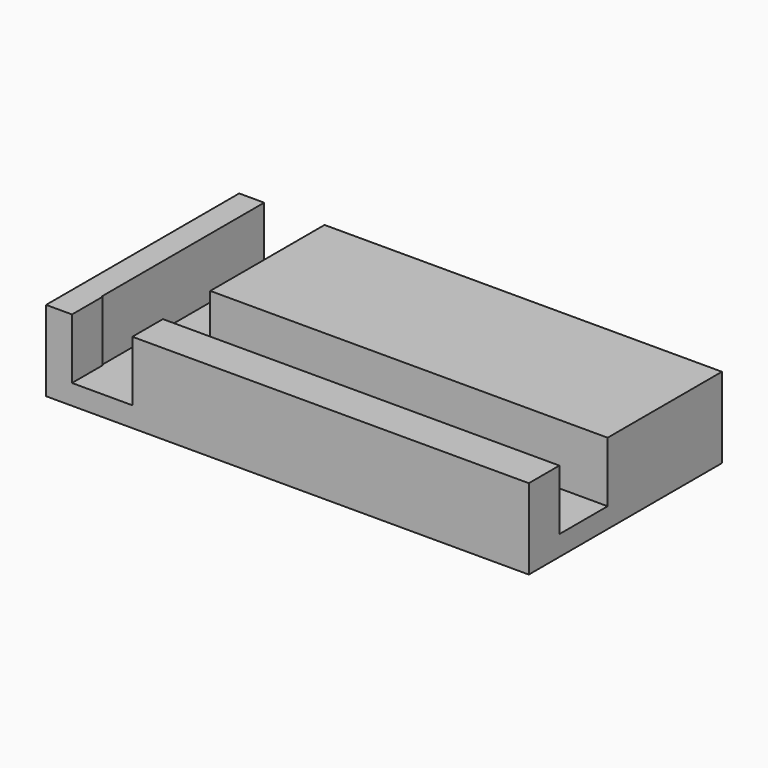
from build123d import *

# Parameters (mm, degrees)
F0_W     = 152.4
F0_H     = 76.2
F1_DEPTH = 25.4
F3_DEPTH = 19.05
F4_W     = 19.05
F4_H     = 19.05
F5_DEPTH = 12.192


with BuildPart() as f1:
    # F0 (on Top) → F1 (new body)
    with BuildSketch(Plane.XY):
        with Locations((24.078096, -6.907338)):
            Rectangle(F0_W, F0_H)
    extrude(amount=F1_DEPTH)

    # F2 (on face) → F3 (cut)
    with BuildSketch(Plane.XY.offset(25.4)):
        Polygon((-25.176978, 31.192662), (-44.226978, 31.192662), (-44.226978, -32.953762), (100.278096, -32.953762), (100.278096, -13.903762), (-25.176978, -13.903762), align=None)
    extrude(amount=-F3_DEPTH, mode=Mode.SUBTRACT)

    # F4 (on face) → F5 (cut)
    with BuildSketch(Plane.XZ.offset(45.007338)):
        with Locations((-34.414173, 15.875)):
            Rectangle(F4_W, F4_H)
    extrude(amount=-F5_DEPTH, mode=Mode.SUBTRACT)


solid = f1.part
